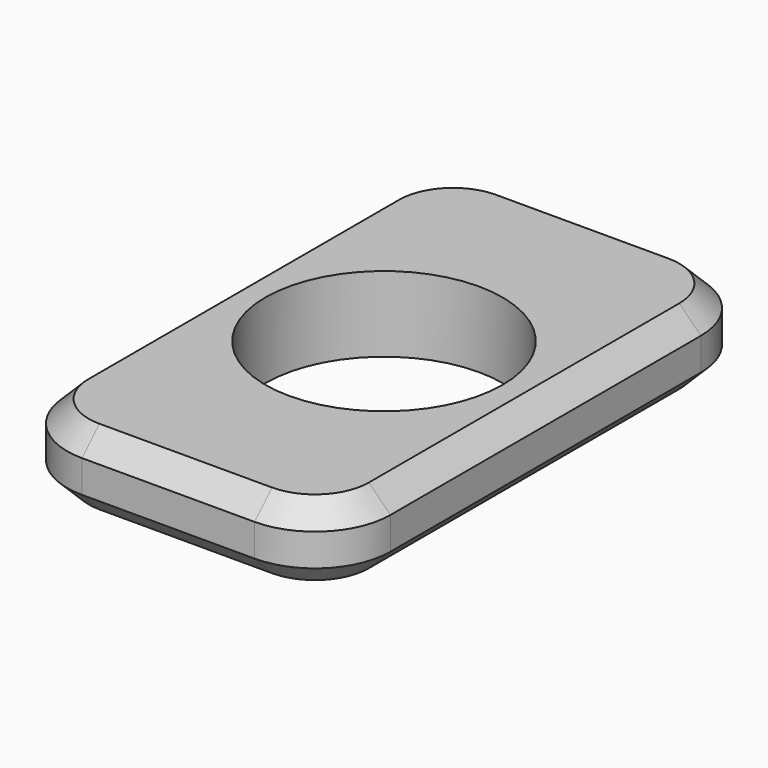
from build123d import *

# Parameters (mm, degrees)
F0_W     = 30
F0_H     = 50
F0_R     = 11.001
F1_DEPTH = 7
F2_R     = 7
F3_SIZE  = 2


with BuildPart() as f1:
    # F0 (on Top) → F1 (new body)
    with BuildSketch(Plane.XY):
        Rectangle(F0_W, F0_H)
        Circle(F0_R, mode=Mode.SUBTRACT)
    extrude(amount=F1_DEPTH)

    # F2
    f2_edges = [f1.edges().sort_by_distance(p)[0] for p in [
        (-15, -25, 3.5),
        (15, -25, 3.5),
        (-15, 25, 3.5),
        (15, 25, 3.5),
    ]]
    fillet(f2_edges, radius=F2_R)

    # F3
    f3_edges = [f1.edges().sort_by_distance(p)[0] for p in [
        (-15, 0, 7),
        (-15, 0, 0),
    ]]
    chamfer(f3_edges, length=F3_SIZE)


solid = f1.part
